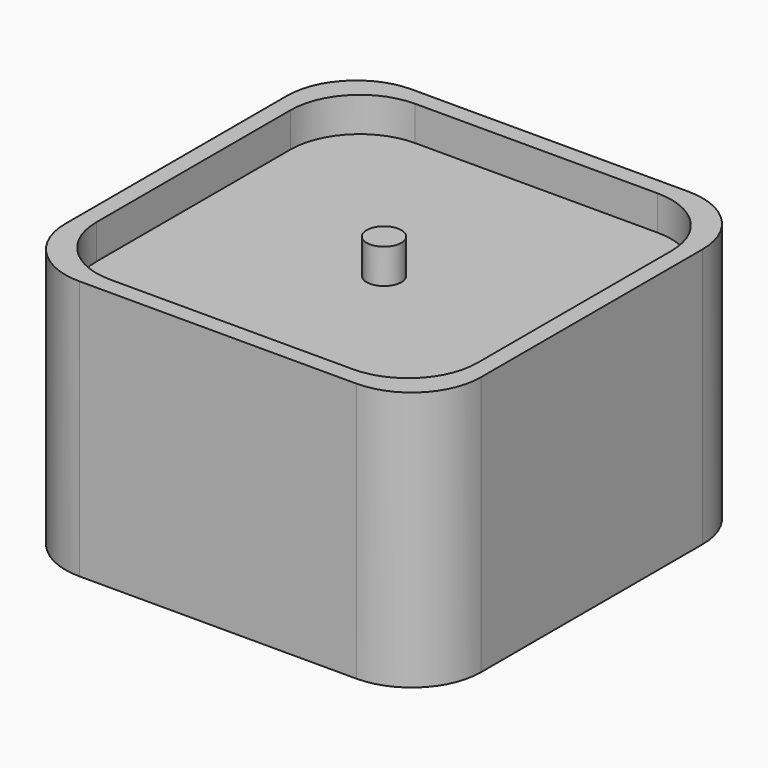
from build123d import *

# Parameters (mm, degrees)
F0_W          = 279.4
F0_H          = 279.4
F0_R          = 12.7
F1_DEPTH      = 76.2
F0_W_2        = 304.8
F0_H_2        = 304.8
F2_DEPTH      = 101.6
F2_DEPTH_BACK = 88.9
F3_R          = 50.8
F4_W          = 241.3
F4_H          = 241.3
F5_DEPTH      = 139.7
F6_DEPTH      = 101.6


with BuildPart() as f1:
    # F0 (on Top) → F1 (new body, symmetric)
    with BuildSketch(Plane.XY):
        Rectangle(F0_W, F0_H)
        Circle(F0_R, mode=Mode.SUBTRACT)
    extrude(amount=F1_DEPTH, both=True)

    # F0 (on Top) → F2 (join, two sides)
    with BuildSketch(Plane.XY) as f2_sk:
        Rectangle(F0_W_2, F0_H_2)
        Rectangle(F0_W, F0_H, mode=Mode.SUBTRACT)
    extrude(amount=F2_DEPTH)
    extrude(f2_sk.sketch, amount=-F2_DEPTH_BACK)

    # F3
    f3_edges = [f1.edges().sort_by_distance(p)[0] for p in [
        (152.4, -152.4, 6.35),
        (152.4, 152.4, 6.35),
        (-152.4, 152.4, 6.35),
        (-152.4, -152.4, 6.35),
        (-139.7, -139.7, 88.9),
        (-139.7, -139.7, -82.55),
        (-139.7, 139.7, 88.9),
        (-139.7, 139.7, -82.55),
        (139.7, 139.7, 88.9),
        (139.7, 139.7, -82.55),
        (139.7, -139.7, 88.9),
        (139.7, -139.7, -82.55),
    ]]
    fillet(f3_edges, radius=F3_R)

    # F4 (on face) → F5 (cut)
    with BuildSketch(Plane(origin=(0, 0, -76.2), x_dir=(1, 0, 0), z_dir=(0, 0, -1))):
        Rectangle(F4_W, F4_H)
    extrude(amount=-F5_DEPTH, mode=Mode.SUBTRACT)

    # F0 (on Top) → F6 (join)
    with BuildSketch(Plane.XY):
        Circle(F0_R)
    extrude(amount=F6_DEPTH)


solid = f1.part
